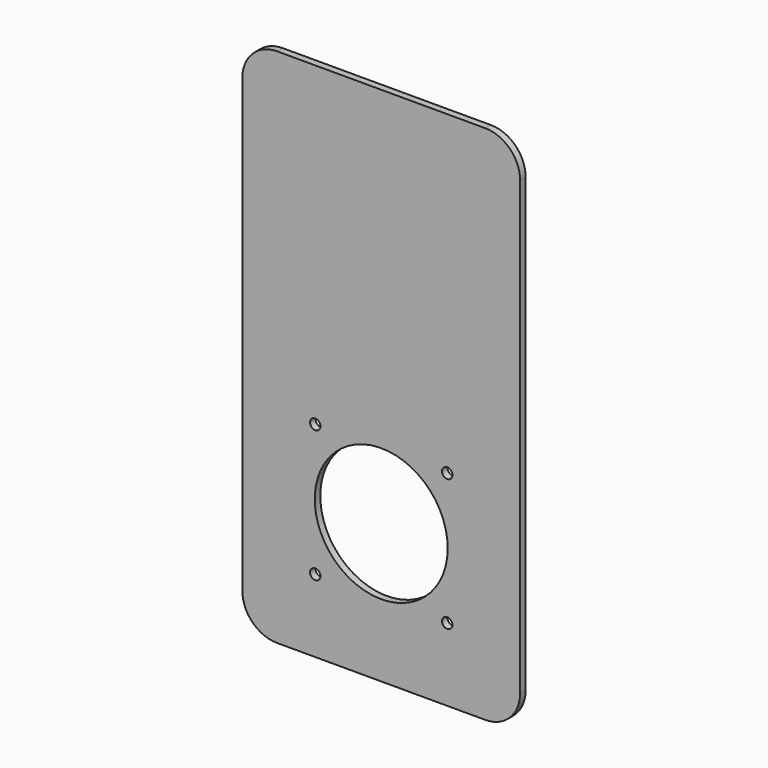
from build123d import *

# Parameters (mm, degrees)
SKETCH_W      = 80
SKETCH_H      = 150
PAD_DEPTH     = 2
FILLET_R      = 10
SKETCH001_R   = 19.147904
SKETCH001_R_2 = 1.5
POCKET_DEPTH  = 5


with BuildPart() as part:
    # Sketch → Pad (new body)
    with BuildSketch(Plane.XZ):
        with Locations((40, 75)):
            Rectangle(SKETCH_W, SKETCH_H)
    extrude(amount=PAD_DEPTH)

    # Fillet
    fillet_edges = [part.edges().sort_by_distance(p)[0] for p in [
        (0, -1, 0),
        (0, -1, 150),
        (80, -1, 150),
        (80, -1, 0),
    ]]
    fillet(fillet_edges, radius=FILLET_R)

    # Sketch001 (on Face2 of Fillet) → Pocket (cut)
    with BuildSketch(Plane(origin=(0, 0, 0), x_dir=(1, 0, 0), z_dir=(0, 1, 0))):
        with Locations((40, -40)):
            Circle(SKETCH001_R)
        with Locations((21, -21)):
            Circle(SKETCH001_R_2)
        with Locations((59, -21)):
            Circle(SKETCH001_R_2)
        with Locations((59, -59)):
            Circle(SKETCH001_R_2)
        with Locations((21, -59)):
            Circle(SKETCH001_R_2)
    extrude(amount=-POCKET_DEPTH, mode=Mode.SUBTRACT)


solid = part.part
